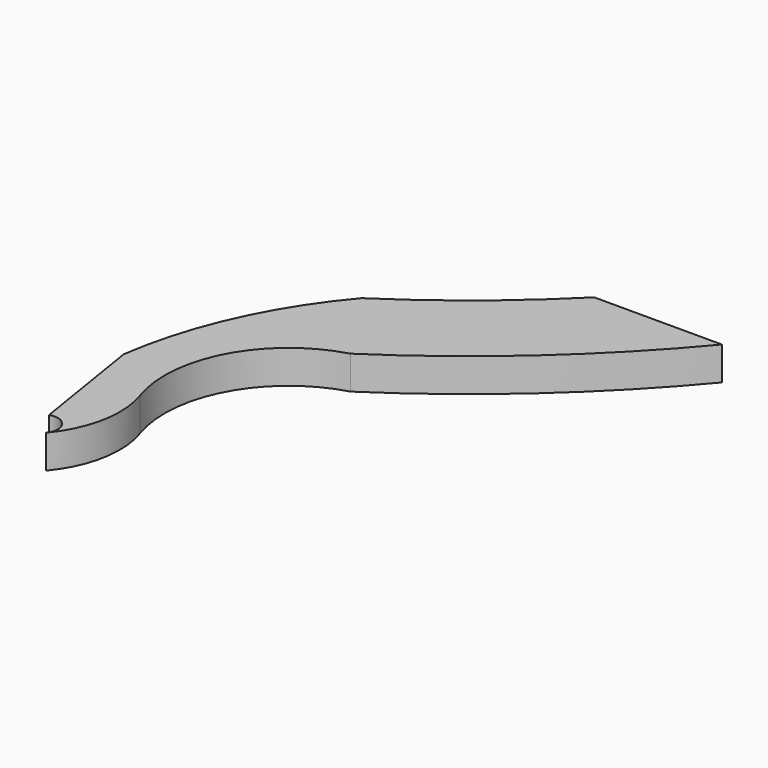
from build123d import *

# Parameters (mm, degrees)
F1_DEPTH = 27
F4_DEPTH = 29.13629
F5_W     = 556.250348
F5_H     = 232.422799
F6_DEPTH = 50


with BuildPart() as f1:
    # F0 (on Top) → F1 (new body)
    with BuildSketch(Plane.XY):
        with BuildLine():
            ThreePointArc((103.141751, 130.827628), (147.000525, 190.646497), (220.000119, 203.797485))
            Line((220.000119, 203.797485), (331.982739, 180.898076))
            ThreePointArc((331.982739, 180.898076), (297.759937, 202.019334), (260.019282, 215.909999))
            ThreePointArc((260.019282, 215.909999), (247.785722, 214.790312), (240.327458, 224.551869))
            ThreePointArc((240.327458, 224.551869), (186.047212, 230.450127), (134.405585, 212.722269))
            ThreePointArc((134.405585, 212.722269), (96.675345, 191.925026), (57.181264, 174.711255))
            ThreePointArc((57.181264, 174.711255), (38.789615, 163.844419), (25.042325, 147.493489))
            ThreePointArc((25.042325, 147.493489), (-75.160431, 14.302014), (-203.064791, -92.567234))
            ThreePointArc((-203.064791, -92.567234), (-248.600788, -164.483519), (-272.445342, -246.19592))
            Line((-272.445342, -246.19592), (-253.424359, -365.238374))
            ThreePointArc((-253.424359, -365.238374), (-248.03197, -364.036727), (-243.660012, -360.659182))
            ThreePointArc((-243.660012, -360.659182), (-226.474264, -324.191868), (-229.146522, -283.966577))
            ThreePointArc((-229.146522, -283.966577), (-222.505303, -205.585554), (-161.231884, -156.257483))
            ThreePointArc((-161.231884, -156.257483), (-11.343038, -29.016538), (103.141751, 130.827628))
        make_face()
    extrude(amount=F1_DEPTH)

    # F3 (on face) → F4 (cut)
    with BuildSketch(Plane.XY.offset(27)):
        with BuildLine():
            ThreePointArc((-240.724359, -352.538374), (-262.404616, -343.558118), (-253.424359, -365.238374))
            ThreePointArc((-253.424359, -365.238374), (-248.03197, -364.036727), (-243.660012, -360.659182))
            ThreePointArc((-243.660012, -360.659182), (-241.4808, -356.855942), (-240.724359, -352.538374))
        make_face()
    extrude(amount=-F4_DEPTH, mode=Mode.SUBTRACT)

    # F5 (on face) → F6 (cut)
    with BuildSketch(Plane.XY):
        with Locations((93.210183, 116.211399)):
            Rectangle(F5_W, F5_H)
    extrude(amount=F6_DEPTH, mode=Mode.SUBTRACT)


solid = f1.part
